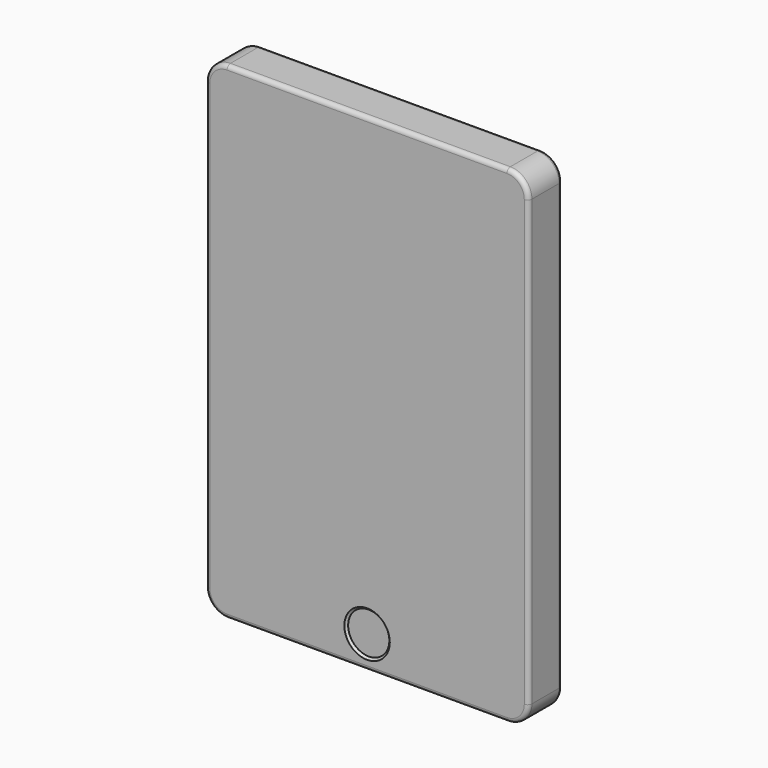
from build123d import *

# Parameters (mm, degrees)
F0_R     = 5.4921588255
F1_DEPTH = 10
F0_R_2   = 4.8647477
F2_DEPTH = 10
F3_SIZE  = 0.5
F4_DEPTH = 9.5
F5_R     = 1


with BuildPart() as f1:
    # F0 (on Front) → F1 (new body)
    with BuildSketch(Plane.XZ):
        with BuildLine():
            Line((-5.08, 62.3396973443), (-71.1331922889, 62.3396973443))
            ThreePointArc((-71.1331922889, 62.3396973443), (-74.7252947373, 60.8517997927), (-76.2131922889, 57.2596973443))
            Line((-76.2131922889, 57.2596973443), (-76.2131922889, -47.5904377484))
            ThreePointArc((-76.2131922889, -47.5904377484), (-74.7252947373, -51.1825401969), (-71.1331922889, -52.6704377484))
            Line((-71.1331922889, -52.6704377484), (-5.08, -52.6704377484))
            ThreePointArc((-5.08, -52.6704377484), (-1.4878975516, -51.1825401969), (0, -47.5904377484))
            Line((0, -47.5904377484), (0, 57.2596973443))
            ThreePointArc((0, 57.2596973443), (-1.4878975516, 60.8517997927), (-5.08, 62.3396973443))
        make_face()
        with Locations((-38.1065961444, -45.075263828)):
            Circle(F0_R, mode=Mode.SUBTRACT)
        with BuildLine():
            ThreePointArc((-68.5931922889, 44.5596973443), (-67.8492435131, 46.3557485685), (-66.0531922889, 47.0996973443))
            Line((-66.0531922889, 47.0996973443), (-10.16, 47.0996973443))
            ThreePointArc((-10.16, 47.0996973443), (-8.3639487758, 46.3557485685), (-7.62, 44.5596973443))
            Line((-7.62, 44.5596973443), (-7.62, -34.8904377484))
            ThreePointArc((-7.62, -34.8904377484), (-8.3639487758, -36.6864889726), (-10.16, -37.4304377484))
            Line((-10.16, -37.4304377484), (-66.0531922889, -37.4304377484))
            ThreePointArc((-66.0531922889, -37.4304377484), (-67.8492435131, -36.6864889726), (-68.5931922889, -34.8904377484))
            Line((-68.5931922889, -34.8904377484), (-68.5931922889, 44.5596973443))
        make_face(mode=Mode.SUBTRACT)
        with BuildLine():
            Line((-10.16, 47.0996973443), (-66.0531922889, 47.0996973443))
            ThreePointArc((-66.0531922889, 47.0996973443), (-67.8492435131, 46.3557485685), (-68.5931922889, 44.5596973443))
            Line((-68.5931922889, 44.5596973443), (-68.5931922889, -34.8904377484))
            ThreePointArc((-68.5931922889, -34.8904377484), (-67.8492435131, -36.6864889726), (-66.0531922889, -37.4304377484))
            Line((-66.0531922889, -37.4304377484), (-10.16, -37.4304377484))
            ThreePointArc((-10.16, -37.4304377484), (-8.3639487758, -36.6864889726), (-7.62, -34.8904377484))
            Line((-7.62, -34.8904377484), (-7.62, 44.5596973443))
            ThreePointArc((-7.62, 44.5596973443), (-8.3639487758, 46.3557485685), (-10.16, 47.0996973443))
        make_face()
    extrude(amount=F1_DEPTH)

    # F0 (on Front) → F2 (join)
    with BuildSketch(Plane.XZ):
        with Locations((-38.1065961444, -45.075263828)):
            Circle(F0_R)
        with Locations((-38.1065961444, -45.075263828)):
            Circle(F0_R_2, mode=Mode.SUBTRACT)
    extrude(amount=F2_DEPTH)

    # F3
    f3_edges = [f1.edges().sort_by_distance(p)[0] for p in [
        (-42.971344, -10, -45.075264),
    ]]
    chamfer(f3_edges, length=F3_SIZE)

    # F0 (on Front) → F4 (join)
    with BuildSketch(Plane.XZ):
        with Locations((-38.1065961444, -45.075263828)):
            Circle(F0_R_2)
    extrude(amount=F4_DEPTH)

    # F5
    f5_edges = [f1.edges().sort_by_distance(p)[0] for p in [
        (-76.213192, -10, 4.83463),
        (-74.725295, 0, 60.8518),
        (-76.213192, -5, 57.259697),
        (-76.213192, -5, -47.590438),
        (-76.213192, 0, 4.83463),
        (-71.133192, -5, 62.339697),
        (-71.133192, -5, -52.670438),
        (-74.725295, 0, -51.18254),
        (-38.106596, 0, -52.670438),
        (-38.106596, -10, -52.670438),
        (0, -5, -47.590438),
        (-5.08, -5, -52.670438),
        (0, -10, 4.83463),
        (0, 0, 4.83463),
    ]]
    fillet(f5_edges, radius=F5_R)


solid = f1.part
